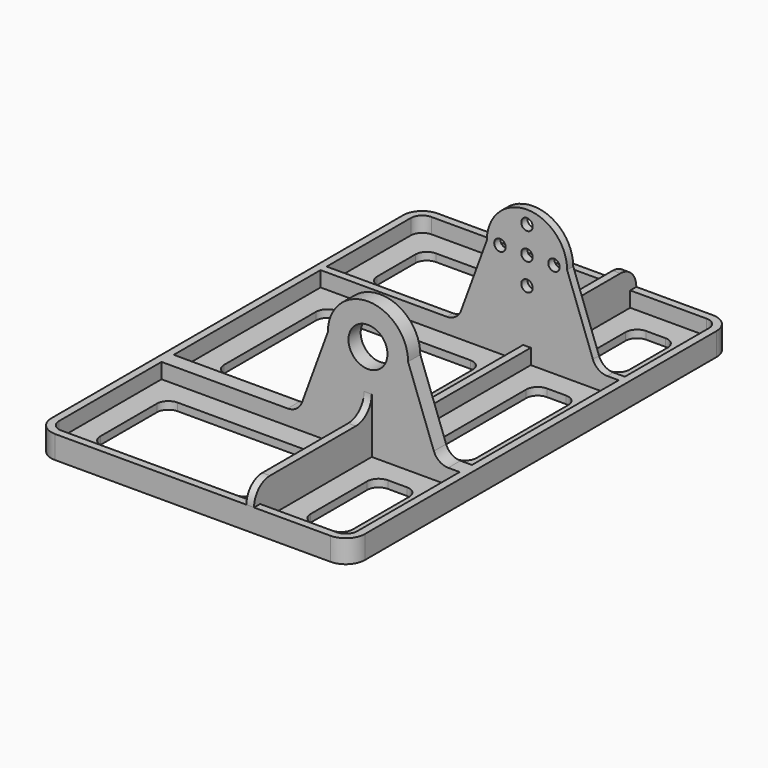
from build123d import *

# Parameters (mm, degrees)
PAD_DEPTH    = 2
SKETCH001_R  = 5.1
PAD001_DEPTH = 4
SKETCH002_R  = 1.5
PAD002_DEPTH = 2
SKETCH003_W  = 4
SKETCH003_H  = 48
PAD003_DEPTH = 1
PAD004_DEPTH = 4


with BuildPart() as part:
    # Sketch → Pad (new body)
    with BuildSketch(Plane.XY):
        with BuildLine():
            ThreePointArc((-36, 62.5), (-39.535534, 61.035534), (-41, 57.5))
            Line((-41, -57.5), (-41, 57.5))
            ThreePointArc((-41, -57.5), (-39.535534, -61.035534), (-36, -62.5))
            Line((36, -62.5), (-36, -62.5))
            ThreePointArc((36, -62.5), (39.535534, -61.035534), (41, -57.5))
            Line((41, 57.5), (41, -57.5))
            ThreePointArc((41, 57.5), (39.535534, 61.035534), (36, 62.5))
            Line((-36, 62.5), (36, 62.5))
        make_face()
        with BuildLine():
            ThreePointArc((-30, 54.5), (-32.12132, 53.62132), (-33, 51.5))
            Line((-33, 39), (-33, 51.5))
            ThreePointArc((-33, 39), (-32.12132, 36.87868), (-30, 36))
            Line((5, 36), (-30, 36))
            ThreePointArc((5, 36), (7.12132, 36.87868), (8, 39))
            Line((8, 51.5), (8, 39))
            ThreePointArc((8, 51.5), (7.12132, 53.62132), (5, 54.5))
            Line((-30, 54.5), (5, 54.5))
        make_face(mode=Mode.SUBTRACT)
        with BuildLine():
            ThreePointArc((25, 54.5), (22.87868, 53.62132), (22, 51.5))
            Line((22, 39), (22, 51.5))
            ThreePointArc((22, 39), (22.87868, 36.87868), (25, 36))
            Line((30, 36), (25, 36))
            ThreePointArc((30, 36), (32.12132, 36.87868), (33, 39))
            Line((33, 51.5), (33, 39))
            ThreePointArc((33, 51.5), (32.12132, 53.62132), (30, 54.5))
            Line((25, 54.5), (30, 54.5))
        make_face(mode=Mode.SUBTRACT)
        with BuildLine():
            ThreePointArc((-30, 22), (-32.12132, 21.12132), (-33, 19))
            Line((-33, -11), (-33, 19))
            ThreePointArc((-33, -11), (-32.12132, -13.12132), (-30, -14))
            Line((5, -14), (-30, -14))
            ThreePointArc((5, -14), (7.12132, -13.12132), (8, -11))
            Line((8, 19), (8, -11))
            ThreePointArc((8, 19), (7.12132, 21.12132), (5, 22))
            Line((-30, 22), (5, 22))
        make_face(mode=Mode.SUBTRACT)
        with BuildLine():
            ThreePointArc((25, 22), (22.87868, 21.12132), (22, 19))
            Line((22, -11), (22, 19))
            ThreePointArc((22, -11), (22.87868, -13.12132), (25, -14))
            Line((30, -14), (25, -14))
            ThreePointArc((30, -14), (32.12132, -13.12132), (33, -11))
            Line((33, 19), (33, -11))
            ThreePointArc((33, 19), (32.12132, 21.12132), (30, 22))
            Line((25, 22), (30, 22))
        make_face(mode=Mode.SUBTRACT)
        with BuildLine():
            ThreePointArc((-30, -30), (-32.12132, -30.87868), (-33, -33))
            Line((-33, -51.5), (-33, -33))
            ThreePointArc((-33, -51.5), (-32.12132, -53.62132), (-30, -54.5))
            Line((5, -54.5), (-30, -54.5))
            ThreePointArc((5, -54.5), (7.12132, -53.62132), (8, -51.5))
            Line((8, -33), (8, -51.5))
            ThreePointArc((8, -33), (7.12132, -30.87868), (5, -30))
            Line((-30, -30), (5, -30))
        make_face(mode=Mode.SUBTRACT)
        with BuildLine():
            ThreePointArc((25, -30), (22.87868, -30.87868), (22, -33))
            Line((22, -51.5), (22, -33))
            ThreePointArc((22, -51.5), (22.87868, -53.62132), (25, -54.5))
            Line((30, -54.5), (25, -54.5))
            ThreePointArc((30, -54.5), (32.12132, -53.62132), (33, -51.5))
            Line((33, -33), (33, -51.5))
            ThreePointArc((33, -33), (32.12132, -30.87868), (30, -30))
            Line((25, -30), (30, -30))
        make_face(mode=Mode.SUBTRACT)
    extrude(amount=PAD_DEPTH)

    # Sketch001 (on DatumPlane) → Pad001 (join)
    with BuildSketch(Plane.XZ.offset(24)):
        with BuildLine():
            Line((39, 2), (39, 6))
            Line((39, 6), (36, 6))
            ThreePointArc((32.244908, 8.621855), (33.710085, 6.720322), (36, 6))
            Line((32.244908, 8.621855), (25.5, 27))
            ThreePointArc((25.5, 27), (15, 37.5), (4.5, 27))
            Line((4.5, 27), (-2.244908, 8.621855))
            ThreePointArc((-6, 6), (-3.710085, 6.720322), (-2.244908, 8.621855))
            Line((-6, 6), (-39, 6))
            Line((-39, 6), (-39, 2))
            Line((-39, 2), (39, 2))
        make_face()
        with Locations((15, 27)):
            Circle(SKETCH001_R, mode=Mode.SUBTRACT)
    extrude(amount=-PAD001_DEPTH)

    # Sketch002 (on DatumPlane) → Pad002 (join)
    with BuildSketch(Plane.XZ.offset(-28)):
        with BuildLine():
            Line((-39, 2), (39, 2))
            Line((39, 2), (39, 6))
            Line((36, 6), (39, 6))
            ThreePointArc((32.244908, 8.621855), (33.710085, 6.720322), (36, 6))
            Line((25.5, 27), (32.244908, 8.621855))
            ThreePointArc((25.5, 27), (15, 37.5), (4.5, 27))
            Line((-2.244908, 8.621855), (4.5, 27))
            ThreePointArc((-6, 6), (-3.710085, 6.720322), (-2.244908, 8.621855))
            Line((-39, 6), (-6, 6))
            Line((-39, 2), (-39, 6))
        make_face()
        with Locations((7.928932, 27)):
            Circle(SKETCH002_R, mode=Mode.SUBTRACT)
        with Locations((15, 34.071068)):
            Circle(SKETCH002_R, mode=Mode.SUBTRACT)
        with Locations((15, 27)):
            Circle(SKETCH002_R, mode=Mode.SUBTRACT)
        with Locations((22.071068, 27)):
            Circle(SKETCH002_R, mode=Mode.SUBTRACT)
        with Locations((15, 19.928932)):
            Circle(SKETCH002_R, mode=Mode.SUBTRACT)
    extrude(amount=-PAD002_DEPTH)

    # Sketch003 (on DatumPlane) → Pad003 (join, symmetric)
    with BuildSketch(Plane(origin=(15, -24, 26), x_dir=(0, 0, 1), z_dir=(1, 0, 0))):
        with BuildLine():
            Line((-24, -54), (-24, -86.5))
            Line((-24, -86.5), (-20, -86.5))
            ThreePointArc((-20, -86.5), (-16.312816, -84.972718), (-14.785534, -81.285534))
            Line((-14.785534, -59.214466), (-14.785534, -81.285534))
            ThreePointArc((-9.571068, -54), (-13.258252, -55.527282), (-14.785534, -59.214466))
            Line((-24, -54), (-9.571068, -54))
        make_face()
        with BuildLine():
            Line((-24, 38.5), (-24, 0))
            Line((-24, 0), (-9.571068, 0))
            ThreePointArc((-14.785534, 5.214466), (-13.258252, 1.527282), (-9.571068, 0))
            Line((-14.785534, 33.285534), (-14.785534, 5.214466))
            ThreePointArc((-14.785534, 33.285534), (-16.312816, 36.972718), (-20, 38.5))
            Line((-24, 38.5), (-20, 38.5))
        make_face()
        with Locations((-22, -28)):
            Rectangle(SKETCH003_W, SKETCH003_H)
    extrude(amount=PAD003_DEPTH, both=True)

    # Sketch004 (on Face8 of Pad003) → Pad004 (join)
    with BuildSketch(Plane.XY.offset(2)):
        with BuildLine():
            Line((-41, -57.5), (-41, 57.5))
            ThreePointArc((-36, 62.5), (-39.535534, 61.035534), (-41, 57.5))
            Line((-36, 62.5), (14, 62.5))
            Line((14, 60.5), (14, 62.5))
            Line((14, 60.5), (-36, 60.5))
            ThreePointArc((-36, 60.5), (-38.12132, 59.62132), (-39, 57.5))
            Line((-39, 57.5), (-39, -57.5))
            ThreePointArc((-39, -57.5), (-38.12132, -59.62132), (-36, -60.5))
            Line((14, -60.5), (-36, -60.5))
            Line((14, -62.5), (14, -60.5))
            Line((-36, -62.5), (14, -62.5))
            ThreePointArc((-41, -57.5), (-39.535534, -61.035534), (-36, -62.5))
        make_face()
        with BuildLine():
            Line((16, 62.5), (36, 62.5))
            ThreePointArc((41, 57.5), (39.535534, 61.035534), (36, 62.5))
            Line((41, -57.5), (41, 57.5))
            ThreePointArc((36, -62.5), (39.535534, -61.035534), (41, -57.5))
            Line((16, -62.5), (36, -62.5))
            Line((16, -60.5), (16, -62.5))
            Line((16, -60.5), (36, -60.5))
            ThreePointArc((36, -60.5), (38.12132, -59.62132), (39, -57.5))
            Line((39, 57.5), (39, -57.5))
            ThreePointArc((39, 57.5), (38.12132, 59.62132), (36, 60.5))
            Line((36, 60.5), (16, 60.5))
            Line((16, 60.5), (16, 62.5))
        make_face()
    extrude(amount=PAD004_DEPTH)


solid = part.part
